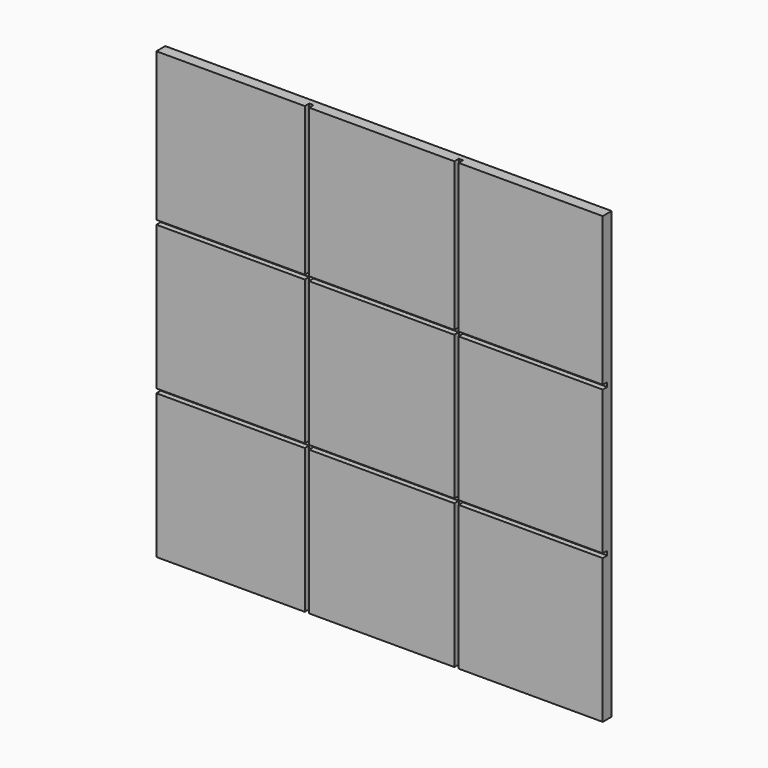
from build123d import *

# Parameters (mm, degrees)
F0_W     = 101.6
F0_H     = 101.346
F1_DEPTH = 2.54
F2_W     = 33.0708
F2_H     = 32.806408
F3_DEPTH = 1.27


with BuildPart() as f1:
    # F0 (on Front) → F1 (new body)
    with BuildSketch(Plane.XZ):
        with Locations((15.568868, 28.617737)):
            Rectangle(F0_W, F0_H)
    extrude(amount=F1_DEPTH)

    # F2 (on face) → F3 (cut)
    with BuildSketch(Plane.XZ.offset(2.54)):
        Polygon((-1.449132, 45.508737), (-35.231132, 45.508737), (-35.231132, 44.533145), (-1.449132, 44.533145), (-1.449132, 11.726737), (-35.231132, 11.726737), (-35.231132, 10.761537), (-1.449132, 10.761537), (-1.449132, -22.055263), (-0.483932, -22.055263), (-0.483932, 10.761537), (32.586868, 10.761537), (32.586868, -22.055263), (33.552068, -22.055263), (33.552068, 10.761537), (66.368868, 10.761537), (66.368868, 11.726737), (33.552068, 11.726737), (33.552068, 44.533145), (66.368868, 44.533145), (66.368868, 45.508737), (33.552068, 45.508737), (33.552068, 76.064587), (33.552068, 79.290737), (32.586868, 79.290737), (32.586868, 45.508737), (-0.483932, 45.508737), (-0.483932, 79.171568), (-0.483932, 79.290737), (-1.449132, 79.290737), align=None)
        with Locations((16.051468, 28.129941)):
            Rectangle(F2_W, F2_H, mode=Mode.SUBTRACT)
    extrude(amount=-F3_DEPTH, mode=Mode.SUBTRACT)


solid = f1.part
